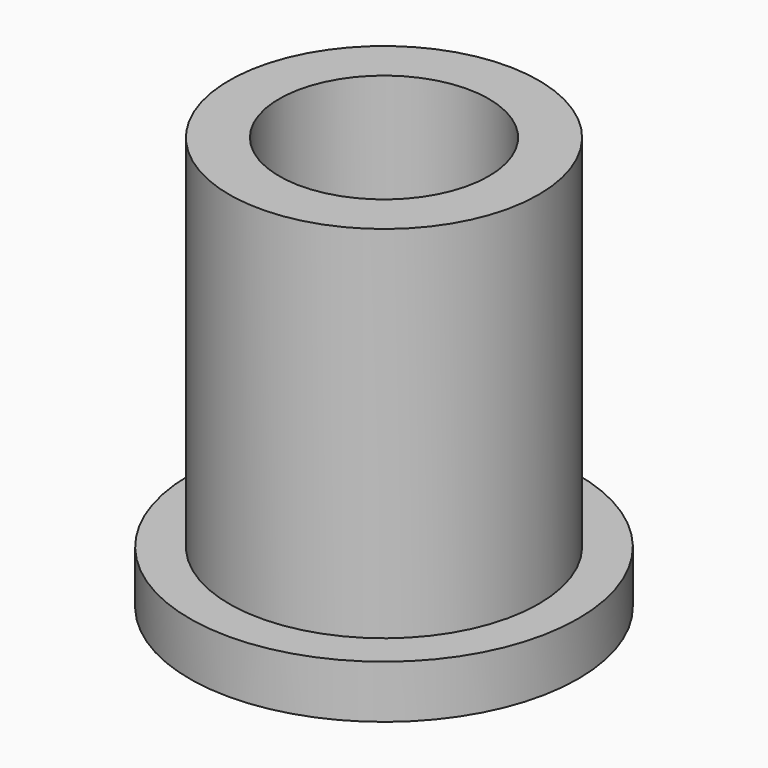
from build123d import *

# Parameters (mm, degrees)
SKETCH_R     = 6.0071
PAD_DEPTH    = 1.6383
SKETCH001_R  = 4.78282
PAD001_DEPTH = 11.1379
SKETCH002_R  = 3.2385
POCKET_DEPTH = 12.7772


with BuildPart() as part:
    # Sketch → Pad (new body)
    with BuildSketch(Plane.XY):
        Circle(SKETCH_R)
    extrude(amount=PAD_DEPTH)

    # Sketch001 → Pad001 (new body)
    with BuildSketch(Plane.XY.offset(1.6383)):
        Circle(SKETCH001_R)
    extrude(amount=PAD001_DEPTH)

    # Sketch002 → Pocket (cut, through all)
    with BuildSketch(Plane.XY.offset(12.7762)):
        Circle(SKETCH002_R)
    extrude(amount=-POCKET_DEPTH, mode=Mode.SUBTRACT)


solid = part.part
